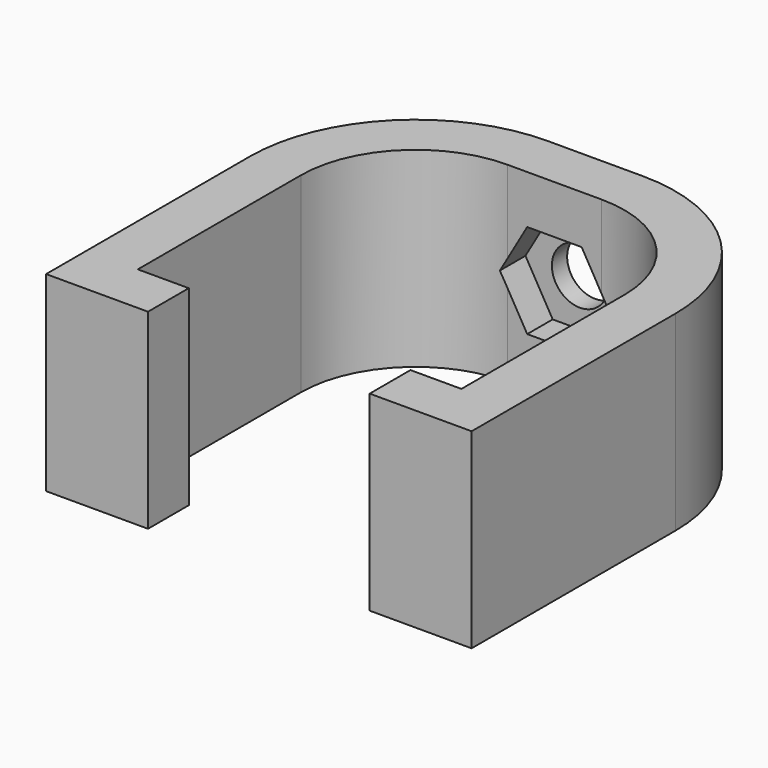
from build123d import *

# Parameters (mm, degrees)
PAD_DEPTH       = 15
SKETCH001_R     = 2.2
POCKET_DEPTH    = 15.914024
POCKET001_DEPTH = 2.5


with BuildPart() as part:
    # Sketch → Pad (new body)
    with BuildSketch(Plane.XY):
        with BuildLine():
            Line((-12.7, -13.086976), (-8.7, -13.086976))
            Line((-8.7, -13.086976), (-8.7, -17.086976))
            Line((-8.7, -17.086976), (-16.7, -17.086976))
            Line((-16.7, -17.086976), (-16.7, 2.913024))
            ThreePointArc((-3.7, 15.913024), (-12.892388, 12.105412), (-16.7, 2.913024))
            Line((-3.7, 15.913024), (3.7, 15.913024))
            ThreePointArc((16.7, 2.913024), (12.892388, 12.105412), (3.7, 15.913024))
            Line((16.7, 2.913024), (16.7, -17.086976))
            Line((16.7, -17.086976), (8.7, -17.086976))
            Line((8.7, -17.086976), (8.7, -13.086976))
            Line((8.7, -13.086976), (12.7, -13.086976))
            Line((12.7, -13.086976), (12.7, 2.913024))
            ThreePointArc((12.7, 2.913024), (10.063961, 9.276985), (3.7, 11.913024))
            Line((3.7, 11.913024), (-3.7, 11.913024))
            ThreePointArc((-3.7, 11.913024), (-10.063961, 9.276985), (-12.7, 2.913024))
            Line((-12.7, 2.913024), (-12.7, -13.086976))
        make_face()
    extrude(amount=PAD_DEPTH)

    # Sketch001 → Pocket (cut, through all)
    with BuildSketch(Plane.XZ):
        with Locations((0, 7.5)):
            Circle(SKETCH001_R)
    extrude(amount=-POCKET_DEPTH, mode=Mode.SUBTRACT)

    # Sketch002 (on Face11 of Pocket) → Pocket001 (cut, symmetric)
    with BuildSketch(Plane.XZ.offset(-11.913024)):
        Polygon((2.136196, 11.2), (-2.136196, 11.2), (-4.272392, 7.5), (-2.136196, 3.8), (2.136196, 3.8), (4.272392, 7.5), align=None)
    extrude(amount=POCKET001_DEPTH, both=True, mode=Mode.SUBTRACT)


solid = part.part
